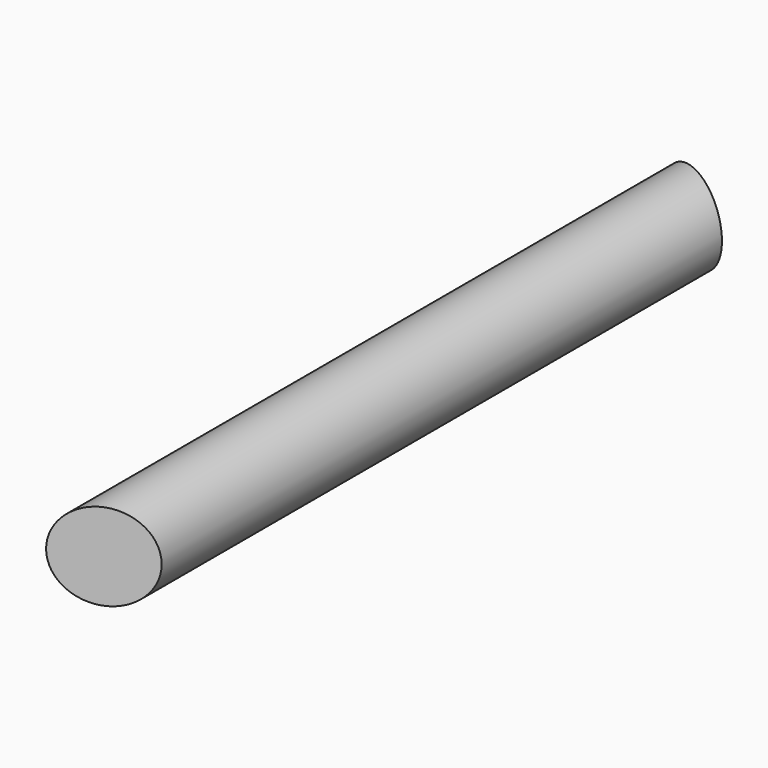
from build123d import *

# Parameters (mm, degrees)
F1_R      = 12.7
F2_DEPTH  = 225.933
F6_W      = 114.097729
F6_H      = 88.5094
F7_DEPTH  = 25.4
F11_W     = 145.65833
F11_H     = 82.475946
F12_DEPTH = 25.4


with BuildPart() as f2:
    # F1 (on face) → F2 (new body)
    with BuildSketch(Plane.XZ):
        Circle(F1_R)
    extrude(amount=F2_DEPTH)

    # F6 (on face) → F7 (cut)
    with BuildSketch(Plane(origin=(78.019506, -188.35575, 0), x_dir=(-0.92388, -0.382683, 0), z_dir=(-0.382683, 0.92388, 0))):
        with Locations((118.185877, 2.949333)):
            Rectangle(F6_W, F6_H)
    extrude(amount=-F7_DEPTH, mode=Mode.SUBTRACT)

    # F11 (on face) → F12 (cut)
    with BuildSketch(Plane(origin=(-1.859872, -4.490128, 0), x_dir=(-0.92388, 0.382683, 0), z_dir=(0.382683, 0.92388, 0))):
        Rectangle(F11_W, F11_H)
    extrude(amount=F12_DEPTH, mode=Mode.SUBTRACT)


solid = f2.part
